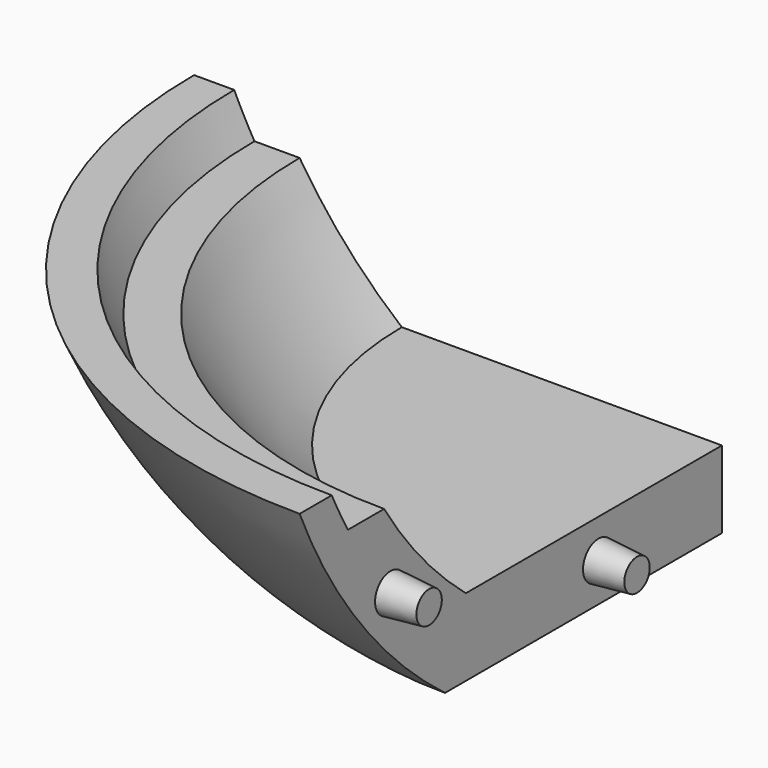
from build123d import *

# Parameters (mm, degrees)
F1_ANGLE = 90
F2_R     = 6.35
F3_DEPTH = 12.7
F3_TAPER = 5
F4_R     = 6.35
F5_DEPTH = 12.7
F5_TAPER = 5


with BuildPart() as f1:
    # F0 (on Front) → F1 (revolve)
    with BuildSketch(Plane.XZ):
        with BuildLine():
            ThreePointArc((-77.1013106813, -170.4810645103), (-80.5622641491, -164.1983062461), (-83.7669886019, -157.7810645103))
            Line((-83.7669886019, -157.7810645103), (-96.971668303, -157.7810645103))
            ThreePointArc((-96.971668303, -157.7810645103), (-71.9810472081, -199.7397034229), (-37.1588170528, -233.9810645103))
            Line((-37.1588170528, -233.9810645103), (76.7419968518, -233.9810645103))
            Line((76.7419968518, -233.9810645103), (76.7419968518, -208.5815945789))
            Line((76.7419968518, -208.5815945789), (-28.6076346844, -208.5815945789))
            ThreePointArc((-28.6076346844, -208.5815945789), (-46.9000470933, -190.8333294487), (-62.2427515075, -170.4810645103))
            Line((-62.2427515075, -170.4810645103), (-77.1013106813, -170.4810645103))
        make_face()
    revolve(axis=Axis((76.7419968518, 0, -221.2813295446), (0, 0, 1)), revolution_arc=F1_ANGLE)

    # F2 (on face) → F3 (join)
    with BuildSketch(Plane.YZ.offset(76.7419968518)):
        with Locations((-136.3420439451, -195.8810645103)):
            Circle(F2_R)
        with Locations((-50.7999999993, -221.2815945789)):
            Circle(F2_R)
    extrude(amount=F3_DEPTH, taper=F3_TAPER)

    # F4 (on face) → F5 (cut)
    with BuildSketch(Plane(origin=(0, 0, 0), x_dir=(-1, 0, 0), z_dir=(0, 1, 0))):
        with Locations((-25.9419968518, -221.2815945789)):
            Circle(F4_R)
        with Locations((59.3110422283, -195.8810645103)):
            Circle(F4_R)
    extrude(amount=-F5_DEPTH, taper=F5_TAPER, mode=Mode.SUBTRACT)


solid = f1.part
